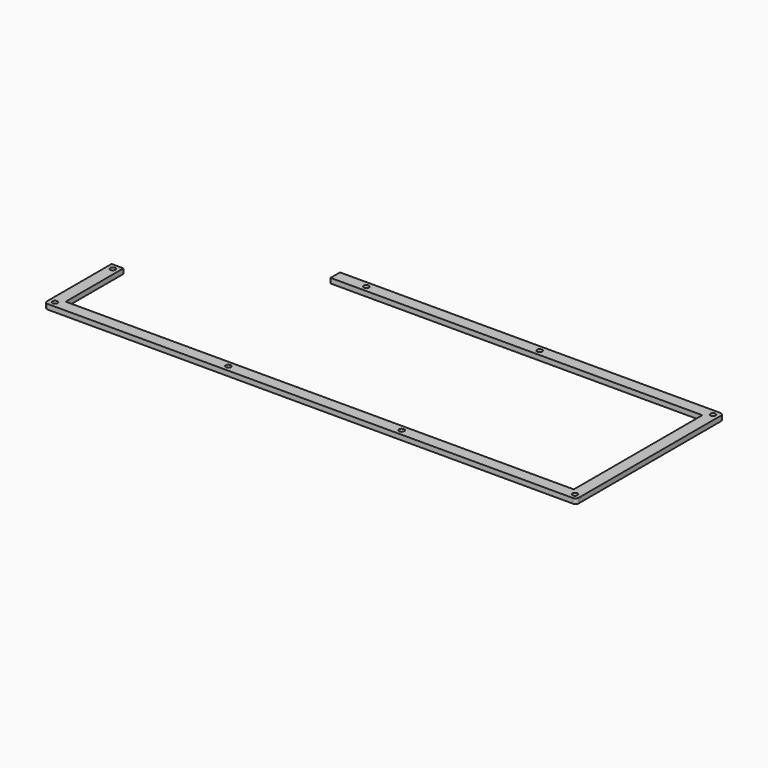
from build123d import *

# Parameters (mm, degrees)
SKETCH_R  = 1.55
PAD_DEPTH = 3


with BuildPart() as part:
    # Sketch → Pad (new body)
    with BuildSketch(Plane.XY):
        with BuildLine():
            Line((71.8975, 17.4775), (301.2275, 17.4775))
            ThreePointArc((303.2275, 15.4775), (302.641714, 16.891714), (301.2275, 17.4775))
            Line((303.2275, 15.4775), (303.2275, -91.6775))
            ThreePointArc((301.2275, -93.6775), (302.641714, -93.091714), (303.2275, -91.6775))
            Line((301.2275, -93.6775), (-15.4775, -93.6775))
            ThreePointArc((-17.4775, -91.6775), (-16.891714, -93.091714), (-15.4775, -93.6775))
            Line((-17.4775, -91.6775), (-17.4775, -43.006))
            Line((-17.4775, -43.006), (-10.3335, -43.006))
            Line((-10.3335, -43.006), (-10.3335, -86.5335))
            Line((-10.3335, -86.5335), (296.0835, -86.5335))
            Line((296.0835, 10.3335), (296.0835, -86.5335))
            Line((71.8975, 10.3335), (296.0835, 10.3335))
            Line((71.8975, 17.4775), (71.8975, 10.3335))
        make_face()
        with Locations((-13.9055, -90.1055)):
            Circle(SKETCH_R, mode=Mode.SUBTRACT)
        with Locations((195.135167, -90.1055)):
            Circle(SKETCH_R, mode=Mode.SUBTRACT)
        with Locations((299.6555, -90.1055)):
            Circle(SKETCH_R, mode=Mode.SUBTRACT)
        with Locations((90.614833, -90.1055)):
            Circle(SKETCH_R, mode=Mode.SUBTRACT)
        with Locations((90.614833, 13.9055)):
            Circle(SKETCH_R, mode=Mode.SUBTRACT)
        with Locations((195.135167, 13.9055)):
            Circle(SKETCH_R, mode=Mode.SUBTRACT)
        with Locations((299.6555, 13.9055)):
            Circle(SKETCH_R, mode=Mode.SUBTRACT)
        with Locations((-13.9055, -46.578)):
            Circle(SKETCH_R, mode=Mode.SUBTRACT)
    extrude(amount=PAD_DEPTH)


solid = part.part
